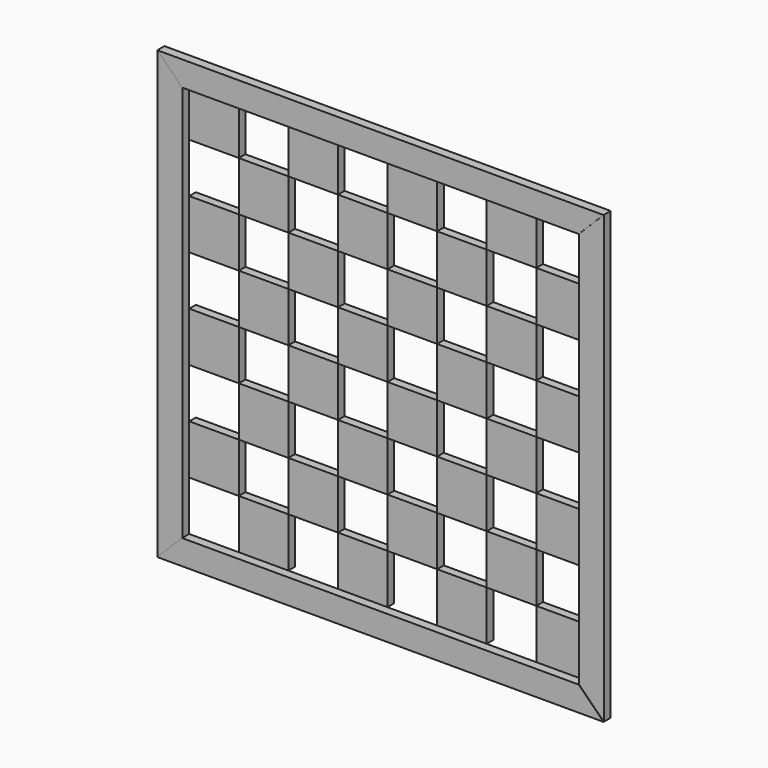
from build123d import *

# Parameters (mm, degrees)
F0_W     = 38.1
F0_H     = 38.1
F1_DEPTH = 6.35
F2_DEPTH = 6.604
F3_DEPTH = 6.858


with BuildPart() as f1:
    # F0 (on Front) → F1 (new body)
    with BuildSketch(Plane.XZ):
        with Locations((-133.35, 57.15)):
            Rectangle(F0_W, F0_H)
    extrude(amount=-F1_DEPTH)


with BuildPart() as f1b:
    # F0 (on Front) → F1, piece 2 (new body)
    with BuildSketch(Plane.XZ):
        with Locations((-95.25, 95.25)):
            Rectangle(F0_W, F0_H)
    extrude(amount=-F1_DEPTH)


with BuildPart() as f1c:
    # F0 (on Front) → F1, piece 3 (new body)
    with BuildSketch(Plane.XZ):
        with Locations((-57.15, 57.15)):
            Rectangle(F0_W, F0_H)
    extrude(amount=-F1_DEPTH)


with BuildPart() as f1d:
    # F0 (on Front) → F1, piece 4 (new body)
    with BuildSketch(Plane.XZ):
        with Locations((-57.15, 133.35)):
            Rectangle(F0_W, F0_H)
    extrude(amount=-F1_DEPTH)


with BuildPart() as f1e:
    # F0 (on Front) → F1, piece 5 (new body)
    with BuildSketch(Plane.XZ):
        with Locations((19.05, 133.35)):
            Rectangle(F0_W, F0_H)
    extrude(amount=-F1_DEPTH)


with BuildPart() as f1f:
    # F0 (on Front) → F1, piece 6 (new body)
    with BuildSketch(Plane.XZ):
        with Locations((19.05, 57.15)):
            Rectangle(F0_W, F0_H)
    extrude(amount=-F1_DEPTH)


with BuildPart() as f1g:
    # F0 (on Front) → F1, piece 7 (new body)
    with BuildSketch(Plane.XZ):
        with Locations((-19.05, 95.25)):
            Rectangle(F0_W, F0_H)
    extrude(amount=-F1_DEPTH)


with BuildPart() as f1h:
    # F0 (on Front) → F1, piece 8 (new body)
    with BuildSketch(Plane.XZ):
        with Locations((57.15, 95.25)):
            Rectangle(F0_W, F0_H)
    extrude(amount=-F1_DEPTH)


with BuildPart() as f1i:
    # F0 (on Front) → F1, piece 9 (new body)
    with BuildSketch(Plane.XZ):
        with Locations((133.35, 95.25)):
            Rectangle(F0_W, F0_H)
    extrude(amount=-F1_DEPTH)


with BuildPart() as f1j:
    # F0 (on Front) → F1, piece 10 (new body)
    with BuildSketch(Plane.XZ):
        with Locations((95.25, 133.35)):
            Rectangle(F0_W, F0_H)
    extrude(amount=-F1_DEPTH)


with BuildPart() as f1k:
    # F0 (on Front) → F1, piece 11 (new body)
    with BuildSketch(Plane.XZ):
        with Locations((95.25, 57.15)):
            Rectangle(F0_W, F0_H)
    extrude(amount=-F1_DEPTH)


with BuildPart() as f1l:
    # F0 (on Front) → F1, piece 12 (new body)
    with BuildSketch(Plane.XZ):
        with Locations((-133.35, -19.05)):
            Rectangle(F0_W, F0_H)
    extrude(amount=-F1_DEPTH)


with BuildPart() as f1m:
    # F0 (on Front) → F1, piece 13 (new body)
    with BuildSketch(Plane.XZ):
        with Locations((-133.35, -95.25)):
            Rectangle(F0_W, F0_H)
    extrude(amount=-F1_DEPTH)


with BuildPart() as f1n:
    # F0 (on Front) → F1, piece 14 (new body)
    with BuildSketch(Plane.XZ):
        with Locations((-95.25, -133.35)):
            Rectangle(F0_W, F0_H)
    extrude(amount=-F1_DEPTH)


with BuildPart() as f1o:
    # F0 (on Front) → F1, piece 15 (new body)
    with BuildSketch(Plane.XZ):
        with Locations((-95.25, -57.15)):
            Rectangle(F0_W, F0_H)
    extrude(amount=-F1_DEPTH)


with BuildPart() as f1p:
    # F0 (on Front) → F1, piece 16 (new body)
    with BuildSketch(Plane.XZ):
        with Locations((-95.25, 19.05)):
            Rectangle(F0_W, F0_H)
    extrude(amount=-F1_DEPTH)


with BuildPart() as f1q:
    # F0 (on Front) → F1, piece 17 (new body)
    with BuildSketch(Plane.XZ):
        with Locations((-57.15, -19.05)):
            Rectangle(F0_W, F0_H)
    extrude(amount=-F1_DEPTH)


with BuildPart() as f1r:
    # F0 (on Front) → F1, piece 18 (new body)
    with BuildSketch(Plane.XZ):
        with Locations((-57.15, -95.25)):
            Rectangle(F0_W, F0_H)
    extrude(amount=-F1_DEPTH)


with BuildPart() as f1s:
    # F0 (on Front) → F1, piece 19 (new body)
    with BuildSketch(Plane.XZ):
        with Locations((-19.05, -57.15)):
            Rectangle(F0_W, F0_H)
    extrude(amount=-F1_DEPTH)


with BuildPart() as f1t:
    # F0 (on Front) → F1, piece 20 (new body)
    with BuildSketch(Plane.XZ):
        with Locations((-19.05, 19.05)):
            Rectangle(F0_W, F0_H)
    extrude(amount=-F1_DEPTH)


with BuildPart() as f1u:
    # F0 (on Front) → F1, piece 21 (new body)
    with BuildSketch(Plane.XZ):
        with Locations((19.05, -19.05)):
            Rectangle(F0_W, F0_H)
    extrude(amount=-F1_DEPTH)


with BuildPart() as f1v:
    # F0 (on Front) → F1, piece 22 (new body)
    with BuildSketch(Plane.XZ):
        with Locations((19.05, -95.25)):
            Rectangle(F0_W, F0_H)
    extrude(amount=-F1_DEPTH)


with BuildPart() as f1w:
    # F0 (on Front) → F1, piece 23 (new body)
    with BuildSketch(Plane.XZ):
        with Locations((57.15, -133.35)):
            Rectangle(F0_W, F0_H)
    extrude(amount=-F1_DEPTH)


with BuildPart() as f1x:
    # F0 (on Front) → F1, piece 24 (new body)
    with BuildSketch(Plane.XZ):
        with Locations((57.15, -57.15)):
            Rectangle(F0_W, F0_H)
    extrude(amount=-F1_DEPTH)


with BuildPart() as f1y:
    # F0 (on Front) → F1, piece 25 (new body)
    with BuildSketch(Plane.XZ):
        with Locations((57.15, 19.05)):
            Rectangle(F0_W, F0_H)
    extrude(amount=-F1_DEPTH)


with BuildPart() as f1z:
    # F0 (on Front) → F1, piece 26 (new body)
    with BuildSketch(Plane.XZ):
        with Locations((95.25, -19.05)):
            Rectangle(F0_W, F0_H)
    extrude(amount=-F1_DEPTH)


with BuildPart() as f1ba:
    # F0 (on Front) → F1, piece 27 (new body)
    with BuildSketch(Plane.XZ):
        with Locations((95.25, -95.25)):
            Rectangle(F0_W, F0_H)
    extrude(amount=-F1_DEPTH)


with BuildPart() as f1bb:
    # F0 (on Front) → F1, piece 28 (new body)
    with BuildSketch(Plane.XZ):
        with Locations((133.35, -57.15)):
            Rectangle(F0_W, F0_H)
    extrude(amount=-F1_DEPTH)


with BuildPart() as f1bc:
    # F0 (on Front) → F1, piece 29 (new body)
    with BuildSketch(Plane.XZ):
        with Locations((133.35, 19.05)):
            Rectangle(F0_W, F0_H)
    extrude(amount=-F1_DEPTH)


with BuildPart() as f1bd:
    # F0 (on Front) → F1, piece 30 (new body)
    with BuildSketch(Plane.XZ):
        with Locations((133.35, -133.35)):
            Rectangle(F0_W, F0_H)
    extrude(amount=-F1_DEPTH)


with BuildPart() as f1be:
    # F0 (on Front) → F1, piece 31 (new body)
    with BuildSketch(Plane.XZ):
        with Locations((-19.05, -133.35)):
            Rectangle(F0_W, F0_H)
    extrude(amount=-F1_DEPTH)


with BuildPart() as f1bf:
    # F0 (on Front) → F1, piece 32 (new body)
    with BuildSketch(Plane.XZ):
        with Locations((-133.35, 133.35)):
            Rectangle(F0_W, F0_H)
    extrude(amount=-F1_DEPTH)


with BuildPart() as f2:
    # F0 (on Front) → F2 (new body)
    with BuildSketch(Plane.XZ):
        Polygon((-152.4, 152.4), (-171.45, 171.45), (-171.45, -171.45), (-152.4, -152.4), (-152.4, -114.3), (-152.4, -76.2), (-152.4, -38.1), (-152.4, 0), (-152.4, 38.1), (-152.4, 76.2), (-152.4, 114.3), align=None)
    extrude(amount=F2_DEPTH)


with BuildPart() as f2b:
    # F0 (on Front) → F2, piece 2 (new body)
    with BuildSketch(Plane.XZ):
        Polygon((171.45, -171.45), (171.45, 171.45), (152.4, 152.4), (152.4, 114.3), (152.4, 76.2), (152.4, 38.1), (152.4, 0), (152.4, -38.1), (152.4, -76.2), (152.4, -114.3), (152.4, -152.4), align=None)
    extrude(amount=F2_DEPTH)


with BuildPart() as f3:
    # F0 (on Front) → F3 (new body)
    with BuildSketch(Plane.XZ):
        Polygon((-152.4, -152.4), (-171.45, -171.45), (171.45, -171.45), (152.4, -152.4), (114.3, -152.4), (76.2, -152.4), (38.1, -152.4), (0, -152.4), (-38.1, -152.4), (-76.2, -152.4), (-114.3, -152.4), align=None)
    extrude(amount=F3_DEPTH)


with BuildPart() as f3b:
    # F0 (on Front) → F3, piece 2 (new body)
    with BuildSketch(Plane.XZ):
        Polygon((171.45, 171.45), (-171.45, 171.45), (-152.4, 152.4), (-114.3, 152.4), (-76.2, 152.4), (-38.1, 152.4), (0, 152.4), (38.1, 152.4), (76.2, 152.4), (114.3, 152.4), (152.4, 152.4), align=None)
    extrude(amount=F3_DEPTH)


solid = Compound([f1.part, f1b.part, f1c.part, f1d.part, f1e.part, f1f.part, f1g.part, f1h.part, f1i.part, f1j.part, f1k.part, f1l.part, f1m.part, f1n.part, f1o.part, f1p.part, f1q.part, f1r.part, f1s.part, f1t.part, f1u.part, f1v.part, f1w.part, f1x.part, f1y.part, f1z.part, f1ba.part, f1bb.part, f1bc.part, f1bd.part, f1be.part, f1bf.part, f2.part, f2b.part, f3.part, f3b.part])
